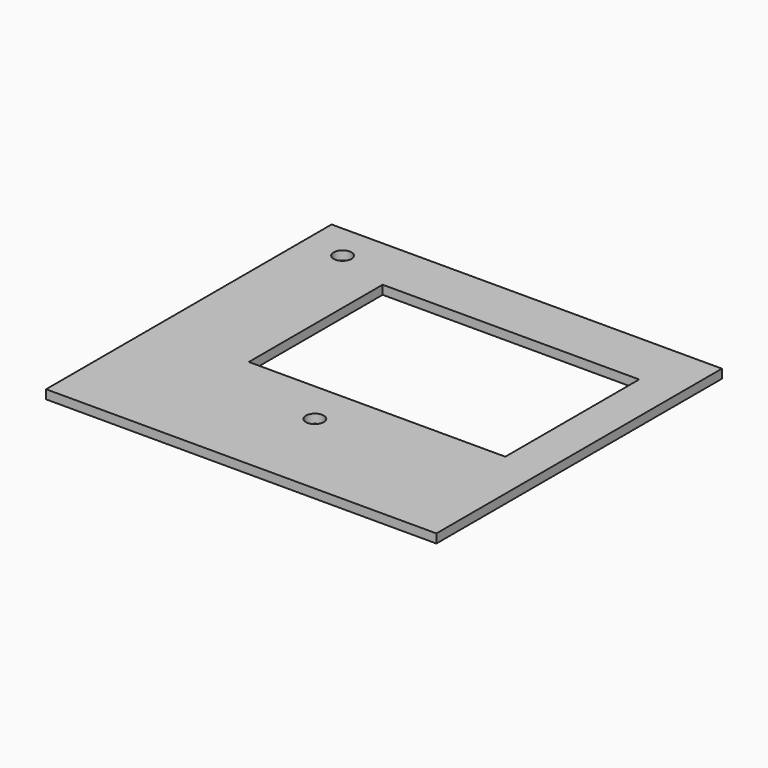
from build123d import *

# Parameters (mm, degrees)
F0_R     = 1.6
F0_W     = 46
F0_H     = 30
F1_DEPTH = 1.6


with BuildPart() as f1:
    # F0 (on Top) → F1 (new body)
    with BuildSketch(Plane.XY):
        Polygon((41.489521, 34.357717), (-28.510479, 34.357717), (-28.510479, -3.442283), (-28.510479, -14.442283), (-28.510479, -29.642283), (41.489521, -29.642283), align=None)
        with Locations((6.489521, -13.142283)):
            Circle(F0_R, mode=Mode.SUBTRACT)
        with Locations((-21.400919, 27.937937)):
            Circle(F0_R, mode=Mode.SUBTRACT)
        with Locations((11.489521, 9.557717)):
            Rectangle(F0_W, F0_H, mode=Mode.SUBTRACT)
    extrude(amount=F1_DEPTH)


solid = f1.part
